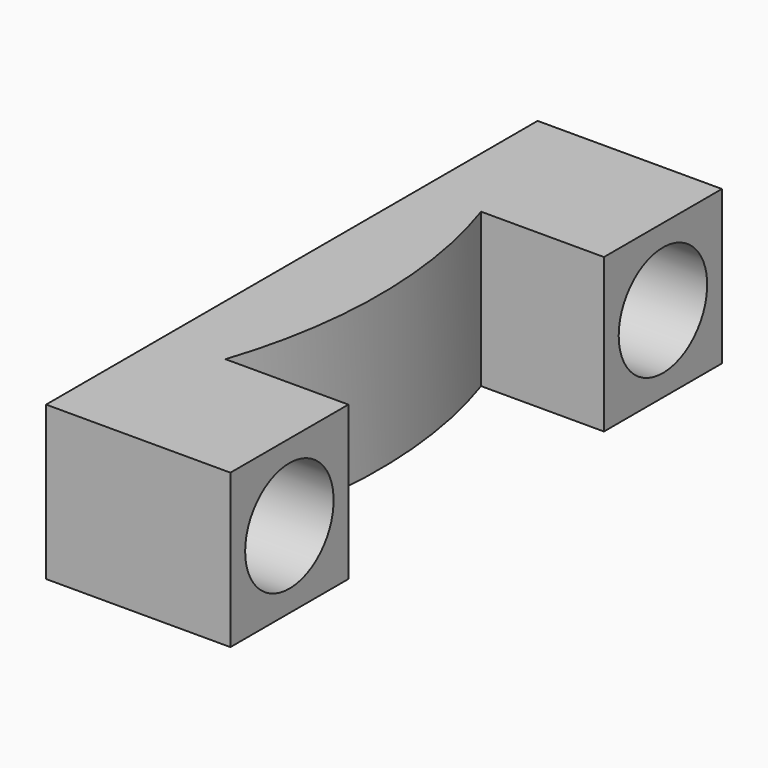
from build123d import *

# Parameters (mm, degrees)
F0_W     = 7.62
F0_H     = 25.4
F1_DEPTH = 6.35
F3_DEPTH = 6.35
F4_R     = 2.286
F5_DEPTH = 7.62


with BuildPart() as f1:
    # F0 (on Top) → F1 (new body)
    with BuildSketch(Plane.XY):
        Rectangle(F0_W, F0_H)
    extrude(amount=F1_DEPTH)

    # F2 (on face) → F3 (cut, through all)
    with BuildSketch(Plane.XY.offset(6.35)):
        with BuildLine():
            ThreePointArc((-1.27, 6.604), (-0.195298, 0), (-1.27, -6.604))
            Line((-1.27, -6.604), (3.81, -6.604))
            Line((3.81, -6.604), (3.81, 6.604))
            Line((3.81, 6.604), (-1.27, 6.604))
        make_face()
    extrude(amount=-F3_DEPTH, mode=Mode.SUBTRACT)

    # F4 (on face) → F5 (cut, through all)
    with BuildSketch(Plane(origin=(-3.81, 0, 0), x_dir=(0, -1, 0), z_dir=(-1, 0, 0))):
        with Locations((-9.652, 3.175)):
            Circle(F4_R)
        with Locations((9.652, 3.175)):
            Circle(F4_R)
    extrude(amount=-F5_DEPTH, mode=Mode.SUBTRACT)


solid = f1.part
